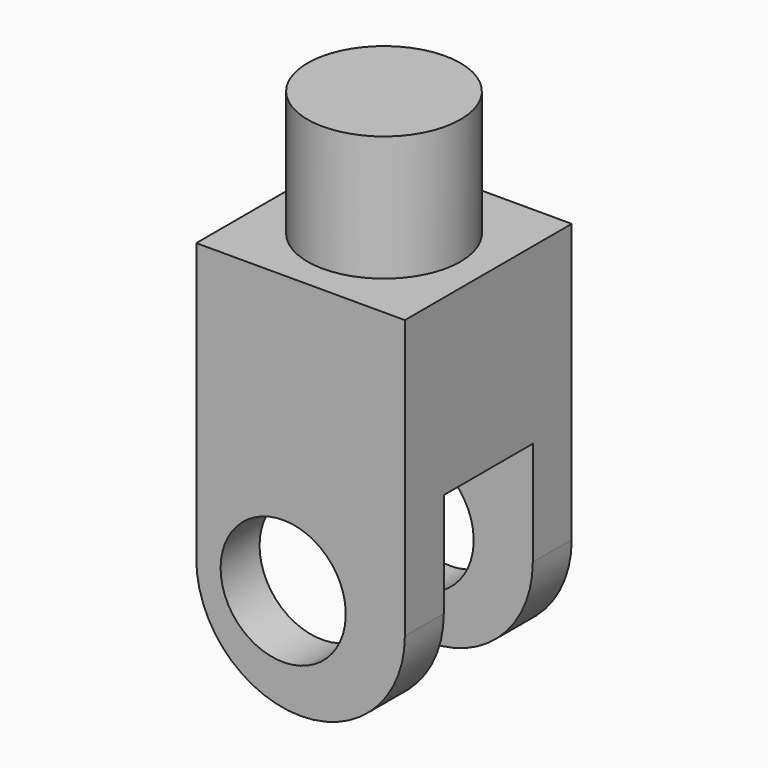
from build123d import *

# Parameters (mm, degrees)
F0_R      = 90
F1_DEPTH  = 180
F2_W      = 300
F2_H      = 300
F3_DEPTH  = 400
F5_DEPTH  = 300
F6_R      = 90
F7_DEPTH  = 300
F8_W      = 160
F8_H      = 300
F9_DEPTH  = 303
F10_R     = 110
F11_DEPTH = 211


with BuildPart() as f1:
    # F0 (on Top) → F1 (new body)
    with BuildSketch(Plane.XY):
        Circle(F0_R)
    extrude(amount=F1_DEPTH)

    # F2 (on face) → F3 (join)
    with BuildSketch(Plane(origin=(0, 0, 0), x_dir=(1, 0, 0), z_dir=(0, 0, -1))):
        Rectangle(F2_W, F2_H)
    extrude(amount=F3_DEPTH)

    # F4 (on face) → F5 (join)
    with BuildSketch(Plane(origin=(0, 150, 0), x_dir=(-1, 0, 0), z_dir=(0, 1, 0))):
        with BuildLine():
            Line((150, -400), (-150, -400))
            ThreePointArc((-150, -400), (0, -550), (150, -400))
        make_face()
    extrude(amount=-F5_DEPTH)

    # F6 (on face) → F7 (cut)
    with BuildSketch(Plane(origin=(0, 150, 0), x_dir=(-1, 0, 0), z_dir=(0, 1, 0))):
        with Locations((25, -400)):
            Circle(F6_R)
    extrude(amount=-F7_DEPTH, mode=Mode.SUBTRACT)

    # F8 (on face) → F9 (cut)
    with BuildSketch(Plane(origin=(-150, 0, 0), x_dir=(0, -1, 0), z_dir=(-1, 0, 0))):
        with Locations((0, -400)):
            Rectangle(F8_W, F8_H)
    extrude(amount=-F9_DEPTH, mode=Mode.SUBTRACT)

    # F10 (on face) → F11 (join)
    with BuildSketch(Plane.XY.offset(180)):
        Circle(F10_R)
    extrude(amount=-F11_DEPTH)


solid = f1.part
